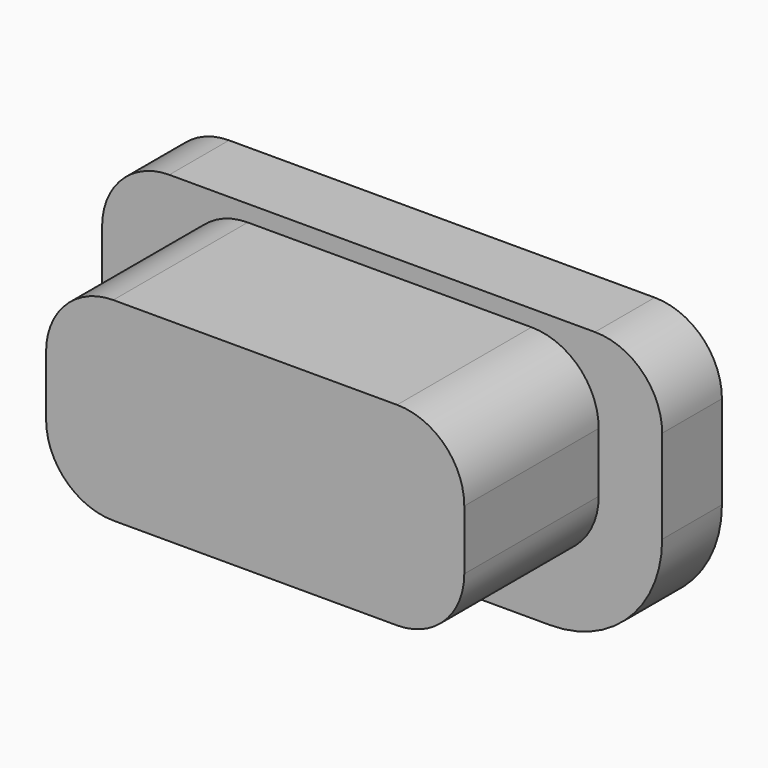
from build123d import *

# Parameters (mm, degrees)
EXTRUDE031_DEPTH = 1
EXTRUDE030_DEPTH = 2.75


with BuildPart() as extrude031:
    # Sketch034 → Extrude031 (new body)
    with BuildSketch(Plane.XZ):
        with BuildLine():
            ThreePointArc((11.7, 16.35), (11.063604, 16.086396), (10.8, 15.45))
            Line((10.8, 14.2), (10.8, 15.45))
            ThreePointArc((10.8, 14.2), (11.23934, 13.13934), (12.3, 12.7))
            Line((16.8, 12.7), (12.3, 12.7))
            ThreePointArc((16.8, 12.7), (17.86066, 13.13934), (18.3, 14.2))
            Line((18.3, 15.45), (18.3, 14.2))
            ThreePointArc((18.3, 15.45), (18.036396, 16.086396), (17.4, 16.35))
            Line((11.7, 16.35), (17.4, 16.35))
        make_face()
    extrude(amount=EXTRUDE031_DEPTH)


with BuildPart() as extrude031_1:
    # Extrude031 placement: moved
    add(extrude031.part.moved(Location((0, 2.5, 0))))


with BuildPart() as button002:
    # Sketch033 → Extrude030 (new body)
    with BuildSketch(Plane.XZ):
        with BuildLine():
            ThreePointArc((12.75, 16.13), (12.113604, 15.866396), (11.85, 15.23))
            Line((11.85, 14.43), (11.85, 15.23))
            ThreePointArc((11.85, 14.43), (12.113604, 13.793604), (12.75, 13.53))
            Line((16.55, 13.53), (12.75, 13.53))
            ThreePointArc((16.55, 13.53), (17.186396, 13.793604), (17.45, 14.43))
            Line((17.45, 15.23), (17.45, 14.43))
            ThreePointArc((17.45, 15.23), (17.186396, 15.866396), (16.55, 16.13))
            Line((12.75, 16.13), (16.55, 16.13))
        make_face()
    extrude(amount=EXTRUDE030_DEPTH)


with BuildPart() as button002_1:
    # Extrude030 placement: moved
    add(button002.part.moved(Location((0, 2, 0))))

    # Fusion033: union Extrude031
    add(extrude031_1.part)


with BuildPart() as button002_2:
    # Fusion033 placement: moved
    add(button002_1.part.moved(Location((32.45, 0, 0))))


solid = button002_2.part
